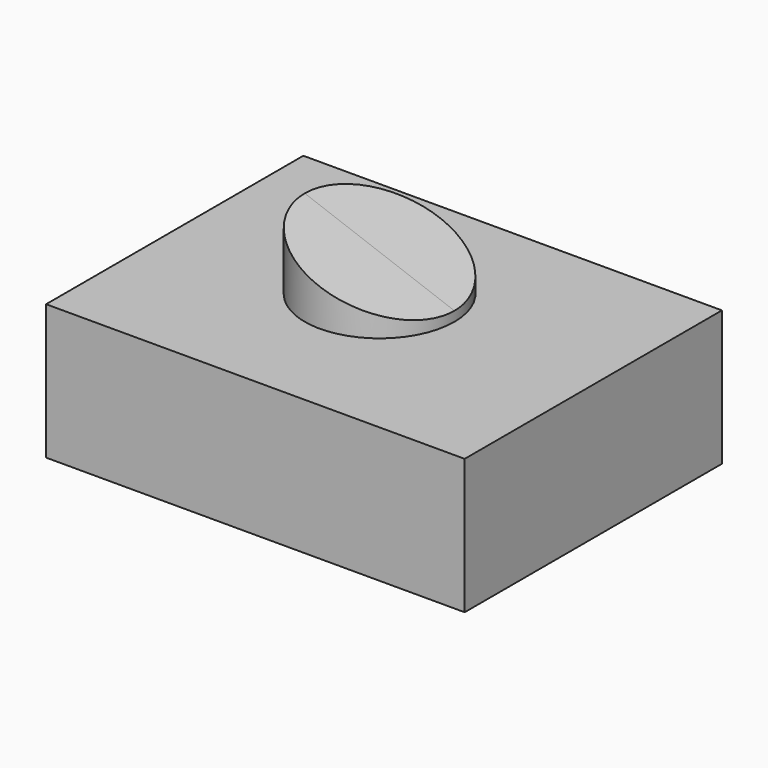
from build123d import *

# Parameters (mm, degrees)
F0_W     = 78.719519
F0_H     = 60.468387
F1_DEPTH = 25.4
F2_R     = 14.074522
F3_DEPTH = 12.7
F5_DEPTH = 25.4
F7_DEPTH = 25.4


with BuildPart() as f1:
    # F0 (on Top) → F1 (new body)
    with BuildSketch(Plane.XY):
        with Locations((-4.240163, -2.8575)):
            Rectangle(F0_W, F0_H)
    extrude(amount=F1_DEPTH)

    # F2 (on face) → F3 (join)
    with BuildSketch(Plane.XY.offset(25.4)):
        with Locations((-7.356567, 0)):
            Circle(F2_R)
    extrude(amount=F3_DEPTH)

    # F4 (on Front) → F5 (cut)
    with BuildSketch(Plane.XZ):
        Polygon((8.411328, 43.520503), (-25.906737, 39.152392), (8.411328, 26.603248), align=None)
    extrude(amount=F5_DEPTH, mode=Mode.SUBTRACT)

    # F6 (on face) → F7 (cut)
    with BuildSketch(Plane.XZ):
        Polygon((6.717955, 38.1), (-21.431089, 38.1), (-21.431089, 37.515774), (6.717955, 27.222466), align=None)
    extrude(amount=-F7_DEPTH, mode=Mode.SUBTRACT)


solid = f1.part
